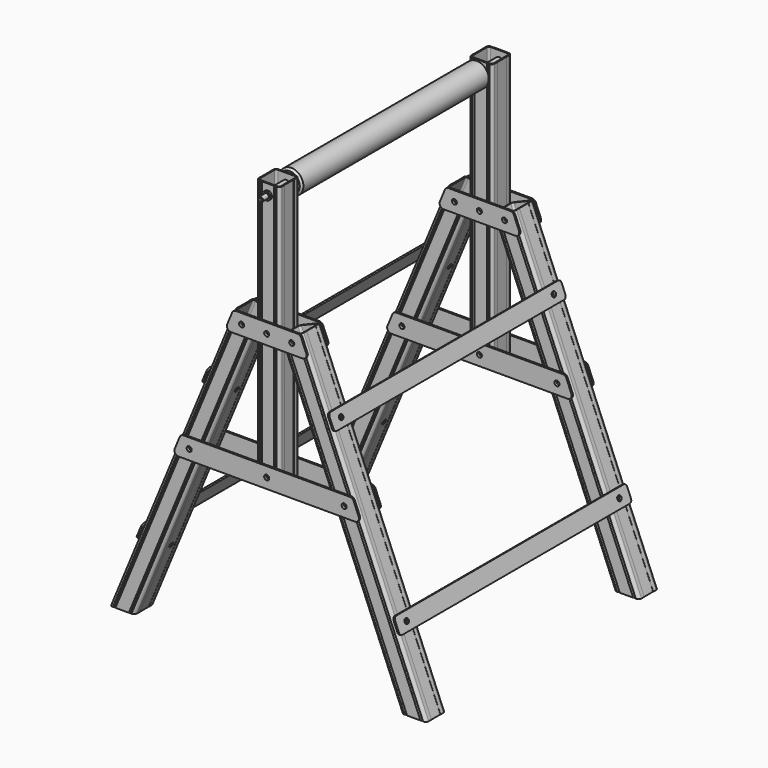
from build123d import *

# Parameters (mm, degrees)
F0_R      = 6.25
F1_DEPTH  = 60
F2_R      = 7.5
F4_DEPTH  = 811
F5_R      = 6.25
F6_DEPTH  = 57.7
F7_W      = 57.7
F7_H      = 664
F7_R      = 6.25
F7_R_2    = 10
F8_DEPTH  = 60
F9_R      = 7.5
F11_DEPTH = 664
F14_R     = 6.25
F15_DEPTH = 4
F16_R     = 10
F16_2_R   = 10
F20_R     = 10
F20_R_2   = 6.25
F21_DEPTH = 35
F23_R     = 5.9
F24_DEPTH = 385
F25_R     = 30
F25_R_2   = 6.25
F26_DEPTH = 292.5
F27_SIZE  = 2
F28_SIZE  = 5
F30_W     = 720
F30_H     = 40
F30_R     = 6.25
F31_DEPTH = 4
F32_R     = 7.5
F32_2_R   = 7.5


with BuildPart() as f1:
    # F0 (on Front) → F1 (new body)
    with BuildSketch(Plane.XZ):
        Polygon((-62.4540299569, 0), (0, 0), (-309.9735802157, 748.3424213341), (-363.2814292416, 726.2615872867), align=None)
        with Locations((-200.7748862391, 409.3247702689)):
            Circle(F0_R, mode=Mode.SUBTRACT)
        with Locations((-330.8872532432, 723.4438113227)):
            Circle(F0_R, mode=Mode.SUBTRACT)
    extrude(amount=F1_DEPTH)

    # F2
    f2_edges = [f1.edges().sort_by_distance(p)[0] for p in [
        (-154.98679, -60, 374.171211),
        (-212.86773, -60, 363.130794),
        (-154.98679, 0, 374.171211),
        (-212.86773, 0, 363.130794),
    ]]
    fillet(f2_edges, radius=F2_R)

    # F3 (on face) → F4 (cut, up to face)
    with BuildSketch(Plane(origin=(-309.9735802157, 0, 748.3424213341), x_dir=(0.9238795325, 0, 0.3826834324), z_dir=(-0.3826834324, 0, 0.9238795325))):
        with BuildLine():
            Line((-54.8, -30), (-54.8, -52.5))
            ThreePointArc((-54.8, -52.5), (-53.4526911935, -55.7526911935), (-50.2, -57.1))
            Line((-50.2, -57.1), (-28.85, -57.1))
            Line((-28.85, -57.1), (-7.5, -57.1))
            ThreePointArc((-7.5, -57.1), (-4.2473088065, -55.7526911935), (-2.9, -52.5))
            Line((-2.9, -52.5), (-2.9, -30))
            Line((-2.9, -30), (-2.9, -7.5))
            ThreePointArc((-2.9, -7.5), (-4.2473088065, -4.2473088065), (-7.5, -2.9))
            Line((-7.5, -2.9), (-28.85, -2.9))
            Line((-28.85, -2.9), (-50.2, -2.9))
            ThreePointArc((-50.2, -2.9), (-53.4526911935, -4.2473088065), (-54.8, -7.5))
            Line((-54.8, -7.5), (-54.8, -30))
        make_face()
        Polygon((-44.2, 0), (-46.2, 0), (-45.2, -1), align=None)
        Polygon((-46.2, 0), (-48.2, 0), (-47.2, -1), align=None)
        Polygon((-48.2, 0), (-50.2, 0), (-49.2, -1), align=None)
        Polygon((-57.7, -16), (-57.7, -44), (-57.4, -44), (-57.4, -30), (-57.4, -16), align=None)
        Polygon((-49.2, -59), (-50.2, -60), (-48.2, -60), align=None)
        Polygon((-47.2, -59), (-48.2, -60), (-46.2, -60), align=None)
        Polygon((-45.2, -59), (-46.2, -60), (-44.2, -60), align=None)
        Polygon((-8.5, -59), (-9.5, -60), (-7.5, -60), align=None)
        Polygon((-10.5, -59), (-11.5, -60), (-9.5, -60), align=None)
        Polygon((-12.5, -59), (-13.5, -60), (-11.5, -60), align=None)
        Polygon((-0.3, -44), (0, -44), (0, -16), (-0.3, -16), (-0.3, -30), align=None)
        Polygon((-7.5, 0), (-9.5, 0), (-8.5, -1), align=None)
        Polygon((-9.5, 0), (-11.5, 0), (-10.5, -1), align=None)
        Polygon((-11.5, 0), (-13.5, 0), (-12.5, -1), align=None)
    extrude(amount=-F4_DEPTH, mode=Mode.SUBTRACT)

    # F5 (on face) → F6 (cut, through all)
    with BuildSketch(Plane(origin=(0, 0, 0), x_dir=(0, 1, 0), z_dir=(0.9238795325, 0, 0.3826834324))):
        with Locations((-30, 200)):
            Circle(F5_R)
        with Locations((-30, 625)):
            Circle(F5_R)
    extrude(amount=-F6_DEPTH, mode=Mode.SUBTRACT)


with BuildPart() as f8:
    # F7 (on face) → F8 (new body)
    with BuildSketch(Plane.XZ.offset(60)):
        with Locations((-393.1314292416, 718)):
            Rectangle(F7_W, F7_H)
        with Locations((-393.1314292416, 409.3247702689)):
            Circle(F7_R, mode=Mode.SUBTRACT)
        with Locations((-393.1314292416, 723.4438113227)):
            Circle(F7_R, mode=Mode.SUBTRACT)
        with Locations((-393.1314292416, 1025)):
            Circle(F7_R_2, mode=Mode.SUBTRACT)
    extrude(amount=-F8_DEPTH)

    # F9
    f9_edges = [f8.edges().sort_by_distance(p)[0] for p in [
        (-421.981429, -60, 718),
        (-364.281429, -60, 718),
        (-364.281429, 0, 718),
        (-421.981429, 0, 718),
    ]]
    fillet(f9_edges, radius=F9_R)

    # F10 (on face) → F11 (cut, through all)
    with BuildSketch(Plane.XY.offset(1050)):
        Polygon((-413.4814292416, -59), (-414.4814292416, -60), (-412.4814292416, -60), align=None)
        Polygon((-411.4814292416, -59), (-412.4814292416, -60), (-410.4814292416, -60), align=None)
        Polygon((-409.4814292416, -59), (-410.4814292416, -60), (-408.4814292416, -60), align=None)
        Polygon((-376.7814292416, -59), (-377.7814292416, -60), (-375.7814292416, -60), align=None)
        Polygon((-374.7814292416, -59), (-375.7814292416, -60), (-373.7814292416, -60), align=None)
        Polygon((-372.7814292416, -59), (-373.7814292416, -60), (-371.7814292416, -60), align=None)
        Polygon((-421.9814292416, -16), (-421.9814292416, -44), (-421.6814292416, -44), (-421.6814292416, -30), (-421.6814292416, -16), align=None)
        Polygon((-364.5814292416, -44), (-364.2814292416, -44), (-364.2814292416, -16), (-364.5814292416, -16), (-364.5814292416, -30), align=None)
        Polygon((-375.7814292416, 0), (-377.7814292416, 0), (-376.7814292416, -1), align=None)
        Polygon((-373.7814292416, 0), (-375.7814292416, 0), (-374.7814292416, -1), align=None)
        Polygon((-371.7814292416, 0), (-373.7814292416, 0), (-372.7814292416, -1), align=None)
        Polygon((-412.4814292416, 0), (-414.4814292416, 0), (-413.4814292416, -1), align=None)
        Polygon((-410.4814292416, 0), (-412.4814292416, 0), (-411.4814292416, -1), align=None)
        Polygon((-408.4814292416, 0), (-410.4814292416, 0), (-409.4814292416, -1), align=None)
        with BuildLine():
            Line((-419.0814292416, -30), (-419.0814292416, -52.5))
            ThreePointArc((-419.0814292416, -52.5), (-417.7341204351, -55.7526911935), (-414.4814292416, -57.1))
            Line((-414.4814292416, -57.1), (-393.1314292416, -57.1))
            Line((-393.1314292416, -57.1), (-371.7814292416, -57.1))
            ThreePointArc((-371.7814292416, -57.1), (-368.5287380482, -55.7526911935), (-367.1814292416, -52.5))
            Line((-367.1814292416, -52.5), (-367.1814292416, -30))
            Line((-367.1814292416, -30), (-367.1814292416, -7.5))
            ThreePointArc((-367.1814292416, -7.5), (-368.5287380482, -4.2473088065), (-371.7814292416, -2.9))
            Line((-371.7814292416, -2.9), (-393.1314292416, -2.9))
            Line((-393.1314292416, -2.9), (-414.4814292416, -2.9))
            ThreePointArc((-414.4814292416, -2.9), (-417.7341204351, -4.2473088065), (-419.0814292416, -7.5))
            Line((-419.0814292416, -7.5), (-419.0814292416, -30))
        make_face()
    extrude(amount=-F11_DEPTH, mode=Mode.SUBTRACT)


with BuildPart() as f13_1:
    # F13: instance of F1
    add(f1.part.mirror(Plane(origin=(-393.1314292416, -30, 718), x_dir=(0, 1, 0), z_dir=(1, 0, 0))))


with BuildPart() as f15:
    # F14 (on face) → F15 (new body)
    with BuildSketch(Plane.XZ.offset(60)):
        Polygon((-310.0155773241, 748.4438113227), (-476.2472811592, 748.4438113227), (-496.9579592778, 698.4438113227), (-289.3048992054, 698.4438113227), align=None)
        with Locations((-455.3756052401, 723.4438113227)):
            Circle(F14_R, mode=Mode.SUBTRACT)
        with Locations((-393.1314292416, 723.4438113227)):
            Circle(F14_R, mode=Mode.SUBTRACT)
        with Locations((-330.8872532432, 723.4438113227)):
            Circle(F14_R, mode=Mode.SUBTRACT)
    extrude(amount=F15_DEPTH)

    # F16
    f16_edges = [f15.edges().sort_by_distance(p)[0] for p in [
        (-310.015577, -62, 748.443811),
        (-289.304899, -62, 698.443811),
        (-496.957959, -62, 698.443811),
        (-476.247281, -62, 748.443811),
    ]]
    fillet(f16_edges, radius=F16_R)


with BuildPart() as f15b:
    # F14 (on face) → F15, piece 2 (new body)
    with BuildSketch(Plane.XZ.offset(60)):
        Polygon((-179.90321032, 434.3247702689), (-606.3596481633, 434.3247702689), (-627.0703262819, 384.3247702689), (-159.1925322013, 384.3247702689), align=None)
        with Locations((-585.4879722442, 409.3247702689)):
            Circle(F14_R, mode=Mode.SUBTRACT)
        with Locations((-393.1314292416, 409.3247702689)):
            Circle(F14_R, mode=Mode.SUBTRACT)
        with Locations((-200.7748862391, 409.3247702689)):
            Circle(F14_R, mode=Mode.SUBTRACT)
    extrude(amount=F15_DEPTH)

    # F16#2
    f16_2_edges = [f15b.edges().sort_by_distance(p)[0] for p in [
        (-627.070326, -62, 384.32477),
        (-606.359648, -62, 434.32477),
        (-179.90321, -62, 434.32477),
        (-159.192532, -62, 384.32477),
    ]]
    fillet(f16_2_edges, radius=F16_2_R)


with BuildPart() as f18_1:
    # F18: instance of F15
    add(f15.part.mirror(Plane(origin=(-393.1314292416, -30, 715.8687307421), x_dir=(1, 0, 0), z_dir=(0, -1, 0))))


with BuildPart() as f18_2:
    # F18: instance of F15b
    add(f15b.part.mirror(Plane(origin=(-393.1314292416, -30, 715.8687307421), x_dir=(1, 0, 0), z_dir=(0, -1, 0))))


with BuildPart() as f21:
    # F20 (on mid) → F21 (new body, symmetric)
    with BuildSketch(Plane.XZ.offset(30)):
        with Locations((-393.1314292416, 1025)):
            Circle(F20_R)
        with Locations((-393.1314292416, 1025)):
            Circle(F20_R_2, mode=Mode.SUBTRACT)
    extrude(amount=F21_DEPTH, both=True)


with BuildPart() as f22_1:
    # F22: instance of F1
    add(f1.part.mirror(Plane(origin=(-393.1314292416, -360, 715.0121466883), x_dir=(1, 0, 0), z_dir=(0, -1, 0))))


with BuildPart() as f22_2:
    # F22: instance of F8
    add(f8.part.mirror(Plane(origin=(-393.1314292416, -360, 715.0121466883), x_dir=(1, 0, 0), z_dir=(0, -1, 0))))


with BuildPart() as f22_3:
    # F22: instance of F13_1
    add(f13_1.part.mirror(Plane(origin=(-393.1314292416, -360, 715.0121466883), x_dir=(1, 0, 0), z_dir=(0, -1, 0))))


with BuildPart() as f22_4:
    # F22: instance of F15
    add(f15.part.mirror(Plane(origin=(-393.1314292416, -360, 715.0121466883), x_dir=(1, 0, 0), z_dir=(0, -1, 0))))


with BuildPart() as f22_5:
    # F22: instance of F15b
    add(f15b.part.mirror(Plane(origin=(-393.1314292416, -360, 715.0121466883), x_dir=(1, 0, 0), z_dir=(0, -1, 0))))


with BuildPart() as f22_6:
    # F22: instance of F18_1
    add(f18_1.part.mirror(Plane(origin=(-393.1314292416, -360, 715.0121466883), x_dir=(1, 0, 0), z_dir=(0, -1, 0))))


with BuildPart() as f22_7:
    # F22: instance of F18_2
    add(f18_2.part.mirror(Plane(origin=(-393.1314292416, -360, 715.0121466883), x_dir=(1, 0, 0), z_dir=(0, -1, 0))))


with BuildPart() as f22_8:
    # F22: instance of F21
    add(f21.part.mirror(Plane(origin=(-393.1314292416, -360, 715.0121466883), x_dir=(1, 0, 0), z_dir=(0, -1, 0))))


with BuildPart() as f24:
    # F23 (on offset) → F24 (new body, symmetric)
    with BuildSketch(Plane.XZ.offset(360)):
        with Locations((-393.1314292416, 1025)):
            Circle(F23_R)
    extrude(amount=F24_DEPTH, both=True)

    # F27
    f27_edges = [f24.edges().sort_by_distance(p)[0] for p in [
        (-399.031429, 25, 1025),
        (-399.031429, -745, 1025),
    ]]
    chamfer(f27_edges, length=F27_SIZE)


with BuildPart() as f26:
    # F25 (on offset) → F26 (new body, symmetric)
    with BuildSketch(Plane.XZ.offset(360)):
        with Locations((-393.1314292416, 1025)):
            Circle(F25_R)
        with Locations((-393.1314292416, 1025)):
            Circle(F25_R_2, mode=Mode.SUBTRACT)
    extrude(amount=F26_DEPTH, both=True)

    # F28
    f28_edges = [f26.edges().sort_by_distance(p)[0] for p in [
        (-423.131429, -652.5, 1025),
        (-423.131429, -67.5, 1025),
    ]]
    chamfer(f28_edges, length=F28_SIZE)


with BuildPart() as f31:
    # F30 (on face) → F31 (new body)
    with BuildSketch(Plane(origin=(0, 0, 0), x_dir=(0, 1, 0), z_dir=(0.9238795325, 0, 0.3826834324))):
        with Locations((-360, 200)):
            Rectangle(F30_W, F30_H)
        with Locations((-690, 200)):
            Circle(F30_R, mode=Mode.SUBTRACT)
        with Locations((-30, 200)):
            Circle(F30_R, mode=Mode.SUBTRACT)
    extrude(amount=F31_DEPTH)

    # F32
    f32_edges = [f31.edges().sort_by_distance(p)[0] for p in [
        (-82.342596, 0, 204.018864),
        (-67.035259, 0, 167.063683),
        (-82.342596, -720, 204.018864),
        (-67.035259, -720, 167.063683),
    ]]
    fillet(f32_edges, radius=F32_R)


with BuildPart() as f31b:
    # F30 (on face) → F31, piece 2 (new body)
    with BuildSketch(Plane(origin=(0, 0, 0), x_dir=(0, 1, 0), z_dir=(0.9238795325, 0, 0.3826834324))):
        with Locations((-360, 625)):
            Rectangle(F30_W, F30_H)
        with Locations((-690, 625)):
            Circle(F30_R, mode=Mode.SUBTRACT)
        with Locations((-30, 625)):
            Circle(F30_R, mode=Mode.SUBTRACT)
    extrude(amount=F31_DEPTH)

    # F32#2
    f32_2_edges = [f31b.edges().sort_by_distance(p)[0] for p in [
        (-244.983055, -720, 596.667665),
        (-229.675718, -720, 559.712484),
        (-244.983055, 0, 596.667665),
        (-229.675718, 0, 559.712484),
    ]]
    fillet(f32_2_edges, radius=F32_2_R)


with BuildPart() as f33_1:
    # F33: instance of F31
    add(f31.part.mirror(Plane(origin=(-393.1314292416, -30, 718), x_dir=(0, 1, 0), z_dir=(1, 0, 0))))


with BuildPart() as f33_2:
    # F33: instance of F31b
    add(f31b.part.mirror(Plane(origin=(-393.1314292416, -30, 718), x_dir=(0, 1, 0), z_dir=(1, 0, 0))))


solid = Compound([f1.part, f8.part, f13_1.part, f15.part, f15b.part, f18_1.part, f18_2.part, f21.part, f22_1.part, f22_2.part, f22_3.part, f22_4.part, f22_5.part, f22_6.part, f22_7.part, f22_8.part, f24.part, f26.part, f31.part, f31b.part, f33_1.part, f33_2.part])
